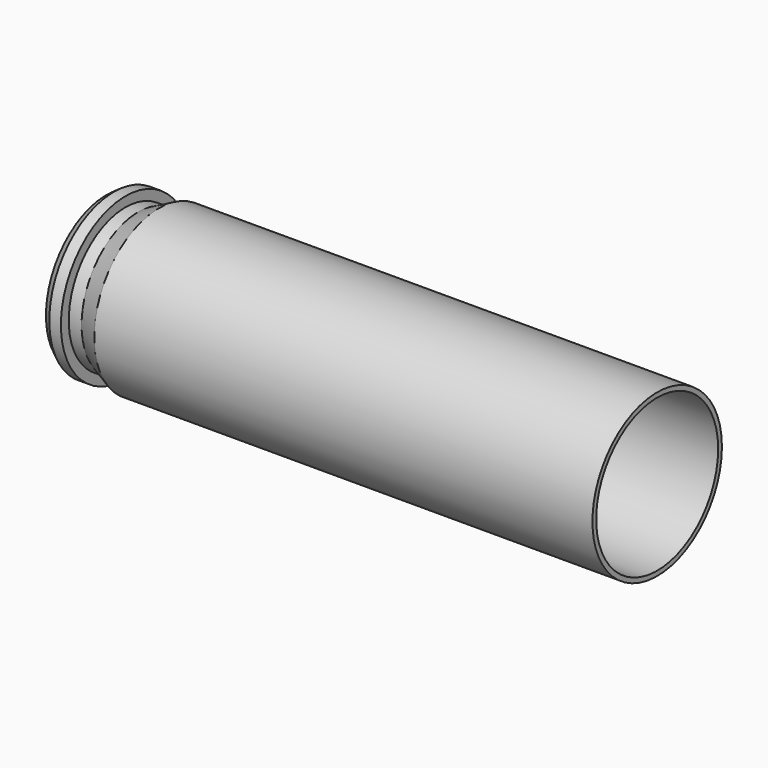
from build123d import *

# Parameters (mm, degrees)
F2_SIZE = 0.25


with BuildPart() as f1:
    # F0 (on Top) → F1 (revolve)
    with BuildSketch(Plane.XY):
        with BuildLine():
            Line((0, 4.484907), (0, 2.205))
            Line((0, 2.205), (2.75, 2.205))
            ThreePointArc((2.75, 2.205), (2.926777, 2.131777), (3, 1.955))
            Line((3, 1.955), (3, 0.85))
            ThreePointArc((3, 0.85), (3.029289, 0.779289), (3.1, 0.75))
            Line((3.1, 0.75), (4.46, 0.75))
            ThreePointArc((4.46, 0.75), (4.530711, 0.779289), (4.56, 0.85))
            Line((4.56, 0.85), (4.56, 3.5339))
            ThreePointArc((4.56, 3.5339), (4.852893, 4.241007), (5.56, 4.5339))
            Line((5.56, 4.5339), (32.766, 4.5339))
            Line((32.766, 4.5339), (32.766, 4.8133))
            Line((32.766, 4.8133), (3.13, 4.8133))
            Line((3.13, 4.8133), (1.9, 4.215))
            Line((1.9, 4.215), (1.14, 4.215))
            Line((1.14, 4.215), (1.14, 4.8))
            Line((1.14, 4.8), (0.45, 4.8))
            Line((0.45, 4.8), (0, 4.484907))
        make_face()
    revolve(axis=Axis((16.383, 0, 0), (-1, 0, 0)))

    # F2
    f2_edges = [f1.edges().sort_by_distance(p)[0] for p in [
        (0, -2.205, 0),
    ]]
    chamfer(f2_edges, length=F2_SIZE)


solid = f1.part
